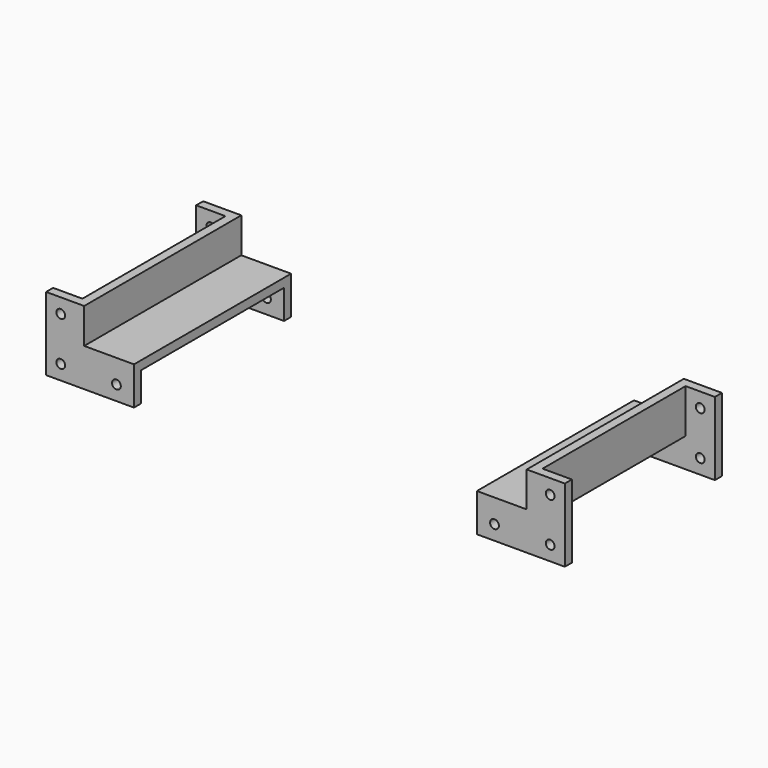
from build123d import *

# Parameters (mm, degrees)
BOX004_W               = 21
BOX004_H               = 69
BOX004_DEPTH           = 16
CYLINDER004_R          = 1.5
CYLINDER004_DEPTH      = 10
CYLINDER004_ROLL_ANGLE = 90
ARRAY001_X_COUNT       = 2
ARRAY001_X_PITCH       = 19
ARRAY001_Z_COUNT       = 2
ARRAY001_Z_PITCH       = 15
BOX003_W               = 30
BOX003_H               = 3
BOX003_DEPTH           = 25
BOX002_W               = 20
BOX002_H               = 67
BOX002_DEPTH           = 15


with BuildPart() as cube003:
    # Box004 → Box004 (new body)
    with BuildSketch(Plane(origin=(3, -1, 3), x_dir=(1, 0, 0), z_dir=(0, 0, 1))):
        with Locations((10.5, 34.5)):
            Rectangle(BOX004_W, BOX004_H)
    extrude(amount=BOX004_DEPTH)


with BuildPart() as array001:
    # Cylinder004 → Cylinder004 (new body)
    with BuildSketch(Plane.XY):
        Circle(CYLINDER004_R)
    extrude(amount=CYLINDER004_DEPTH)


with BuildPart() as array001_1:
    # Cylinder004 roll: moved
    add(array001.part.rotate(Axis((0, 0, 0), (1, 0, 0)), CYLINDER004_ROLL_ANGLE))


with BuildPart() as array001_2:
    # Cylinder004 placement: moved
    add(array001_1.part.moved(Location((-5, 6, 10))))

    # Array001 X: Array001 ×2


with BuildPart() as array001_3:
    add(array001_2.part)
    with Locations(*[(i * ARRAY001_X_PITCH, 0, 0) for i in range(1, ARRAY001_X_COUNT)]):
        add(array001_2.part)

    # Array001 Z: Array001 ×2


with BuildPart() as array001_4:
    add(array001_3.part)
    with Locations(*[(0, 0, -i * ARRAY001_Z_PITCH) for i in range(1, ARRAY001_Z_COUNT)]):
        add(array001_3.part)


with BuildPart() as obj1:
    # Box003 → Box003 (new body)
    with BuildSketch(Plane(origin=(-10, 0, -10), x_dir=(1, 0, 0), z_dir=(0, 0, 1))):
        with Locations((15, 1.5)):
            Rectangle(BOX003_W, BOX003_H)
    extrude(amount=BOX003_DEPTH)

    # Cut006: cut Array001
    add(array001_4.part, mode=Mode.SUBTRACT)


with BuildPart() as obj2:
    # Part__Mirroring002: instance of obj1
    add(obj1.part.mirror(Plane(origin=(0, 33.5, 0), x_dir=(1, 0, 0), z_dir=(0, 1, 0))))

    # Fusion: union obj1
    add(obj1.part)


with BuildPart() as obj3:
    # Box002 → Box002 (new body)
    with BuildSketch(Plane.XY):
        with Locations((10, 33.5)):
            Rectangle(BOX002_W, BOX002_H)
    extrude(amount=BOX002_DEPTH)

    # Fusion001: union obj2
    add(obj2.part)

    # Cut007: cut Cube003
    add(cube003.part, mode=Mode.SUBTRACT)


with BuildPart() as obj3_1:
    # Cut007 placement: moved
    add(obj3.part.moved(Location((-3, 3, -3))))


with BuildPart() as suporte:
    # Part__Mirroring003: instance of obj3
    add(obj3_1.part.mirror(Plane(origin=(75.5, 0, 0), x_dir=(0, -1, 0), z_dir=(1, 0, 0))))

    # Fusion004: union obj3
    add(obj3_1.part)


solid = suporte.part
